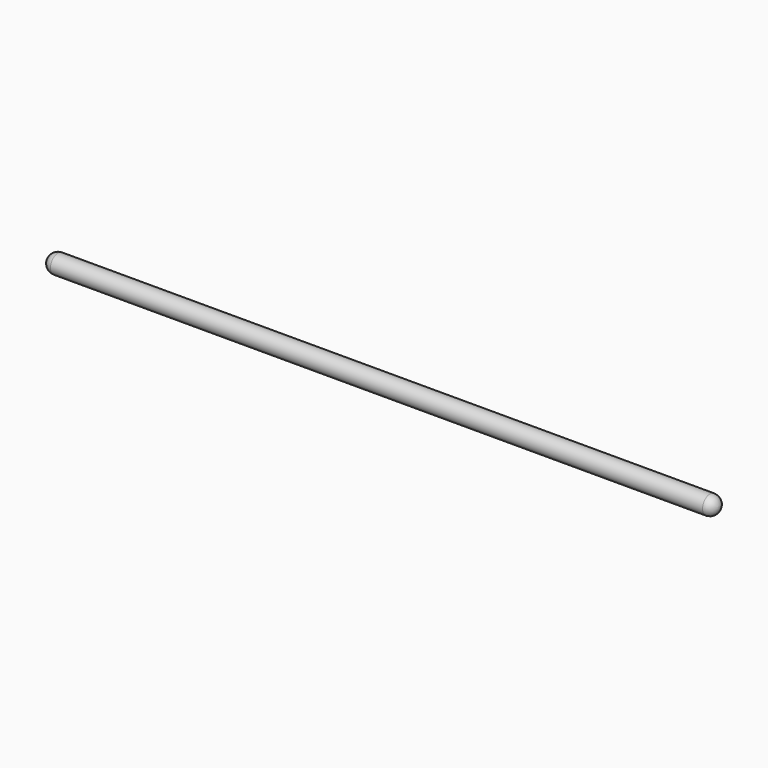
from build123d import *


with BuildPart() as f1:
    # F0 (on Top) → F1 (revolve)
    with BuildSketch(Plane.XY):
        with BuildLine():
            ThreePointArc((-153.673839, 5), (-150.138305, 3.535534), (-148.673839, 0))
            Line((-148.673839, 0), (191.326161, 0))
            ThreePointArc((191.326161, 0), (192.790627, 3.535534), (196.326161, 5))
            Line((196.326161, 5), (-153.673839, 5))
        make_face()
        with BuildLine():
            Line((-158.673839, 0), (-153.673839, 0))
            Line((-153.673839, 0), (-148.673839, 0))
            ThreePointArc((-148.673839, 0), (-150.138305, 3.535534), (-153.673839, 5))
            ThreePointArc((-153.673839, 5), (-157.209373, 3.535534), (-158.673839, 0))
        make_face()
        with BuildLine():
            ThreePointArc((196.326161, 5), (192.790627, 3.535534), (191.326161, 0))
            Line((191.326161, 0), (196.326161, 0))
            Line((196.326161, 0), (201.326161, 0))
            ThreePointArc((201.326161, 0), (199.861695, 3.535534), (196.326161, 5))
        make_face()
    revolve(axis=Axis((21.326161, 0, 0), (1, 0, 0)))


solid = f1.part
